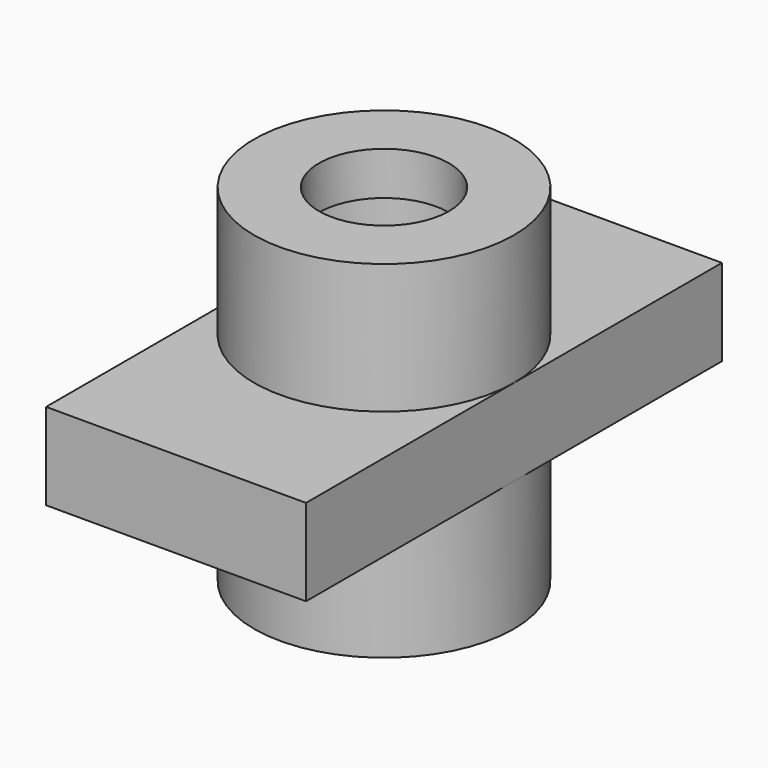
from build123d import *

# Parameters (mm, degrees)
F0_R     = 19.05
F0_R_2   = 9.525
F1_DEPTH = 50.8
F3_W     = 38.1
F3_H     = 12.7
F4_DEPTH = 76.2
F6_R     = 12.7
F7_DEPTH = 6.35


with BuildPart() as f1:
    # F0 (on Top) → F1 (new body)
    with BuildSketch(Plane.XY):
        Circle(F0_R)
        Circle(F0_R_2, mode=Mode.SUBTRACT)
    extrude(amount=-F1_DEPTH)

    # F3 (on offset) → F4 (join)
    with BuildSketch(Plane.XZ.offset(38.1)):
        with Locations((1e-06, -25.4)):
            Rectangle(F3_W, F3_H)
    extrude(amount=-F4_DEPTH)

    # F6 (on offset) → F7 (cut)
    with BuildSketch(Plane.XY.offset(-6.35)):
        Circle(F6_R)
    extrude(amount=-F7_DEPTH, mode=Mode.SUBTRACT)


solid = f1.part
